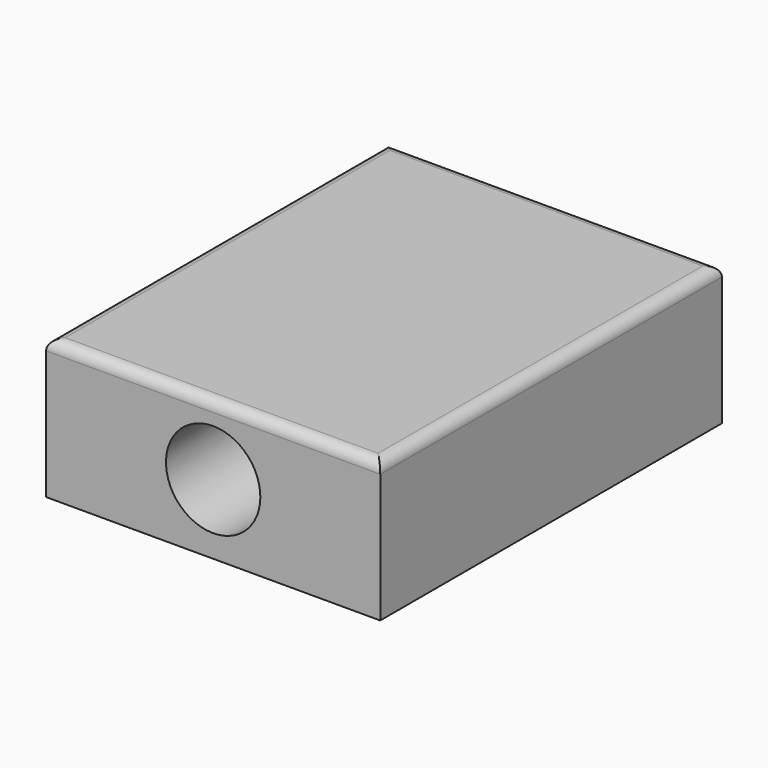
from build123d import *

# Parameters (mm, degrees)
F0_W     = 99.370434
F0_H     = 41.450106
F1_DEPTH = 127
F2_R     = 14.029552
F3_DEPTH = 127.001
F4_R     = 3.175


with BuildPart() as f1:
    # F0 (on Front) → F1 (new body)
    with BuildSketch(Plane.XZ):
        Rectangle(F0_W, F0_H)
    extrude(amount=-F1_DEPTH)

    # F2 (on face) → F3 (cut, through all)
    with BuildSketch(Plane.XZ):
        Circle(F2_R)
    extrude(amount=-F3_DEPTH, mode=Mode.SUBTRACT)

    # F4
    f4_edges = [f1.edges().sort_by_distance(p)[0] for p in [
        (49.685217, 63.5, 20.725053),
        (-49.685217, 63.5, 20.725053),
        (0, 0, 20.725053),
        (0, 127, 20.725053),
    ]]
    fillet(f4_edges, radius=F4_R)


solid = f1.part
